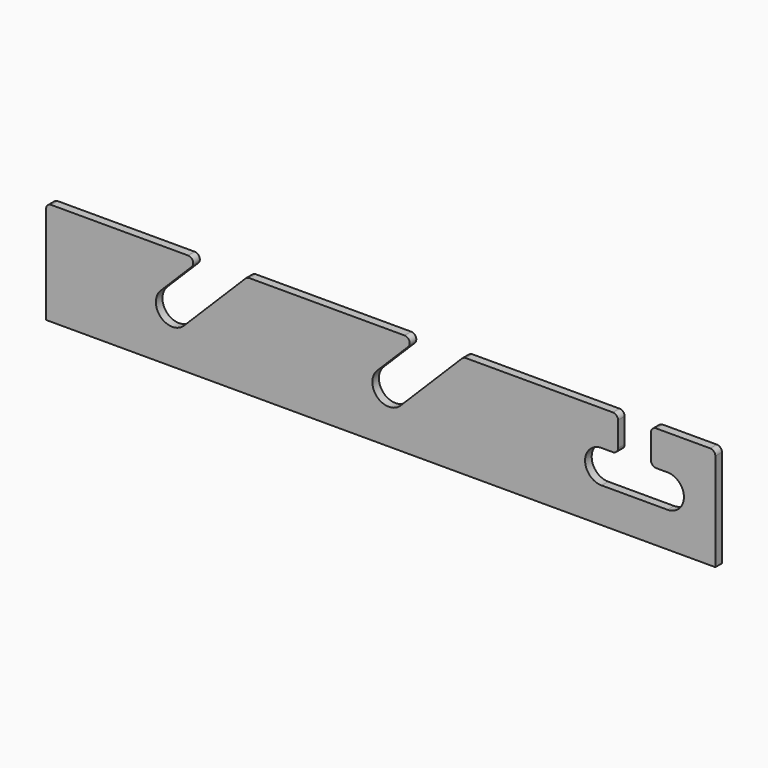
from build123d import *

# Parameters (mm, degrees)
F1_DEPTH = 8


with BuildPart() as f1:
    # F0 (on Front) → F1 (new body)
    with BuildSketch(Plane.XZ):
        with BuildLine():
            Line((47.868519, 50), (-85.060413, 50))
            ThreePointArc((-85.060413, 50), (-88.595947, 48.535534), (-90.060413, 45))
            Line((-90.060413, 45), (-90.060413, -50))
            Line((-90.060413, -50), (559.939587, -50))
            Line((559.939587, -50), (559.939587, 45))
            ThreePointArc((559.939587, 45), (558.475121, 48.535534), (554.939587, 50))
            Line((554.939587, 50), (502.449255, 50))
            ThreePointArc((502.449255, 50), (498.913721, 48.535534), (497.449255, 45))
            Line((497.449255, 45), (497.449255, 21))
            ThreePointArc((497.449255, 21), (498.913721, 17.464466), (502.449255, 16))
            Line((502.449255, 16), (513.449255, 16))
            ThreePointArc((513.449255, 16), (529.449255, 0), (513.449255, -16))
            Line((513.449255, -16), (449.449255, -16))
            ThreePointArc((449.449255, -16), (433.449255, 0), (449.449255, 16))
            Line((449.449255, 16), (460.449255, 16))
            ThreePointArc((460.449255, 16), (463.984789, 17.464466), (465.449255, 21))
            Line((465.449255, 21), (465.449255, 45))
            ThreePointArc((465.449255, 45), (463.984789, 48.535534), (460.449255, 50))
            Line((460.449255, 50), (317.520323, 50))
            ThreePointArc((317.520323, 50), (315.606906, 49.619398), (313.984789, 48.535534))
            Line((313.984789, 48.535534), (254.135547, -11.313708))
            ThreePointArc((254.135547, -11.313708), (231.50813, -11.313708), (231.50813, 11.313708))
            Line((231.50813, 11.313708), (261.658887, 41.464466))
            ThreePointArc((261.658887, 41.464466), (262.742751, 46.913417), (258.123353, 50))
            Line((258.123353, 50), (107.265489, 50))
            ThreePointArc((107.265489, 50), (105.352072, 49.619398), (103.729955, 48.535534))
            Line((103.729955, 48.535534), (43.880713, -11.313708))
            ThreePointArc((43.880713, -11.313708), (21.253296, -11.313708), (21.253296, 11.313708))
            Line((21.253296, 11.313708), (51.404053, 41.464466))
            ThreePointArc((51.404053, 41.464466), (52.487917, 46.913417), (47.868519, 50))
        make_face()
    extrude(amount=F1_DEPTH)


solid = f1.part
